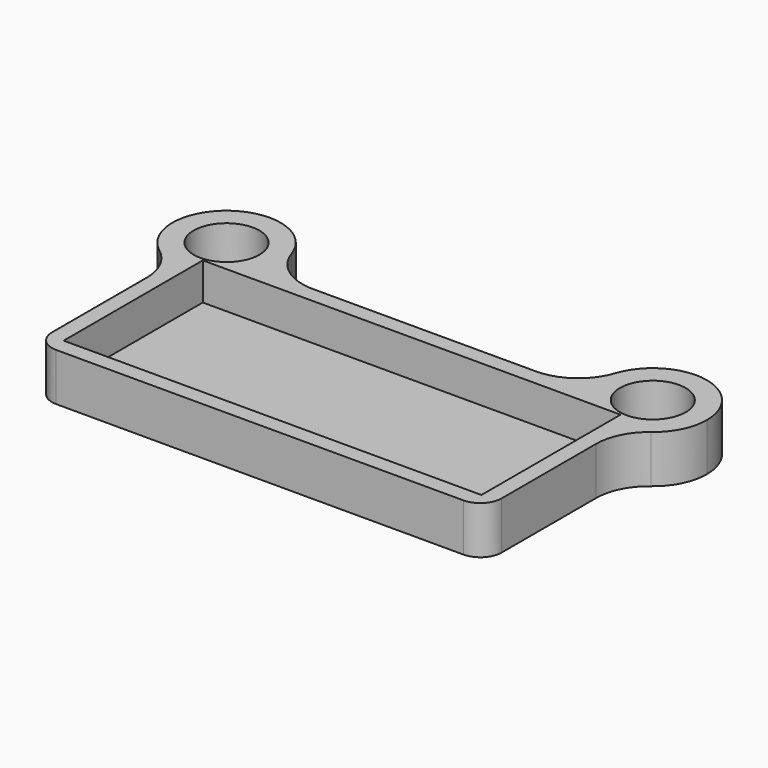
from build123d import *

# Parameters (mm, degrees)
F2_DEPTH = 4.5
F0_R     = 3.1
F3_DEPTH = 4.501
F0_W     = 39.4
F0_H     = 16.4
F4_DEPTH = 3.5
F5_R     = 2
F6_R     = 5


with BuildPart() as f2:
    # F1 (on Top) → F2 (new body)
    with BuildSketch(Plane.XY):
        with BuildLine():
            Line((-21.2, -1.8), (-15.328208, -1.8))
            ThreePointArc((-15.328208, -1.8), (-15.082723, -0.914839), (-15, 0))
            ThreePointArc((-15, 0), (-23.293744, 3.976179), (-21.2, -4.97996))
            Line((-21.2, -4.97996), (-21.2, -1.8))
        make_face()
        with BuildLine():
            ThreePointArc((21.2, -4.97996), (17.671307, -4.484579), (15.328208, -1.8))
            Line((15.328208, -1.8), (-15.328208, -1.8))
            ThreePointArc((-15.328208, -1.8), (-17.671307, -4.484579), (-21.2, -4.97996))
            Line((-21.2, -4.97996), (-21.2, -21.2))
            Line((-21.2, -21.2), (21.2, -21.2))
            Line((21.2, -21.2), (21.2, -4.97996))
        make_face()
        with BuildLine():
            Line((15.328208, -1.8), (21.2, -1.8))
            Line((21.2, -1.8), (21.2, -4.97996))
            ThreePointArc((21.2, -4.97996), (24.076179, -3.193744), (25.2, 0))
            ThreePointArc((25.2, 0), (19.185161, 5.017277), (15.328208, -1.8))
        make_face()
        with BuildLine():
            Line((21.2, -4.97996), (21.2, -1.8))
            Line((21.2, -1.8), (15.328208, -1.8))
            ThreePointArc((15.328208, -1.8), (17.671307, -4.484579), (21.2, -4.97996))
        make_face()
        with BuildLine():
            ThreePointArc((-21.2, -4.97996), (-17.671307, -4.484579), (-15.328208, -1.8))
            Line((-15.328208, -1.8), (-21.2, -1.8))
            Line((-21.2, -1.8), (-21.2, -4.97996))
        make_face()
    extrude(amount=-F2_DEPTH)

    # F0 (on Top) → F3 (cut, through all)
    with BuildSketch(Plane.XY):
        with Locations((-20.1, 0)):
            Circle(F0_R)
        with BuildLine():
            ThreePointArc((23.2, 0), (20.1, 3.1), (17, 0))
            ThreePointArc((17, 0), (20.1, -3.1), (23.2, 0))
        make_face()
    extrude(amount=-F3_DEPTH, mode=Mode.SUBTRACT)

    # F0 (on Top) → F4 (cut)
    with BuildSketch(Plane.XY):
        with Locations((0, -11.5)):
            Rectangle(F0_W, F0_H)
    extrude(amount=-F4_DEPTH, mode=Mode.SUBTRACT)

    # F5
    f5_edges = [f2.edges().sort_by_distance(p)[0] for p in [
        (-21.2, -21.2, -2.25),
        (21.2, -21.2, -2.25),
    ]]
    fillet(f5_edges, radius=F5_R)

    # F6
    f6_edges = [f2.edges().sort_by_distance(p)[0] for p in [
        (-21.2, -4.97996, -2.25),
        (-15.328208, -1.8, -2.25),
        (21.2, -4.97996, -2.25),
        (15.328208, -1.8, -2.25),
    ]]
    fillet(f6_edges, radius=F6_R)


solid = f2.part
